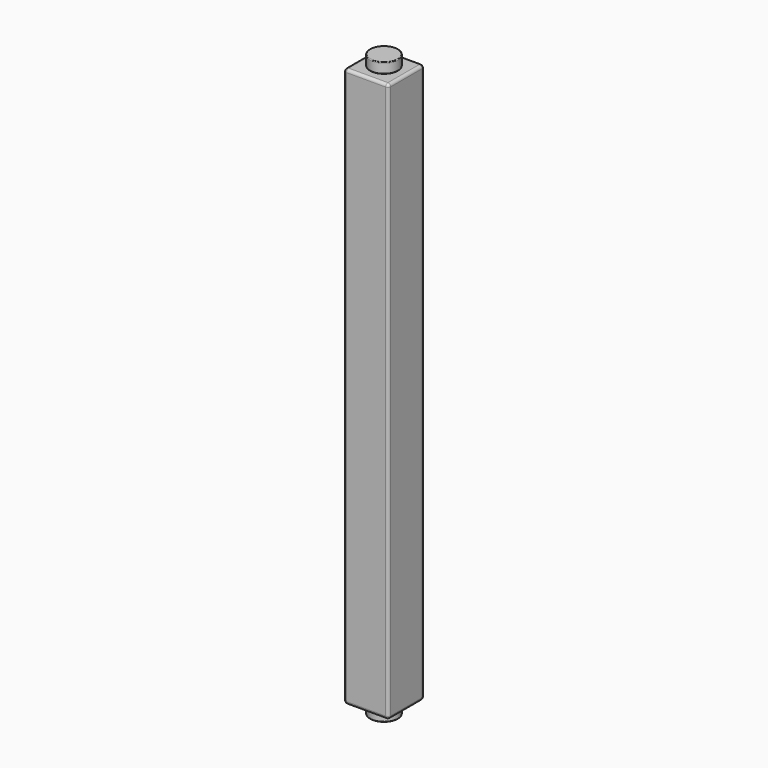
from build123d import *

# Parameters (mm, degrees)
F0_W     = 12.8
F0_H     = 12.8
F1_DEPTH = 160
F2_R     = 0.8
F4_START = 0.1
F3_R     = 4
F4_DEPTH = 3
F5_R     = 0.2
F7_START = 0.1
F6_R     = 4
F7_DEPTH = 3
F8_R     = 0.2


with BuildPart() as f1:
    # F0 (on Top) → F1 (new body)
    with BuildSketch(Plane.XY):
        Rectangle(F0_W, F0_H)
    extrude(amount=F1_DEPTH)

    # F2
    f2_edges = [f1.edges().sort_by_distance(p)[0] for p in [
        (6.4, -6.4, 80),
        (-6.4, -6.4, 80),
        (6.4, 6.4, 80),
        (-6.4, 6.4, 80),
        (0, -6.4, 0),
        (6.4, 0, 0),
        (0, 6.4, 0),
        (-6.4, 0, 0),
        (0, -6.4, 160),
        (6.4, 0, 160),
        (0, 6.4, 160),
        (-6.4, 0, 160),
    ]]
    fillet(f2_edges, radius=F2_R)


with BuildPart() as f4:
    # F3 (on face) → F4 (new body)
    with BuildSketch(Plane(origin=(0, 0, 0), x_dir=(1, 0, 0), z_dir=(0, 0, -1)).offset(F4_START)):
        Circle(F3_R)
    extrude(amount=F4_DEPTH)

    # F5
    f5_edges = [f4.edges().sort_by_distance(p)[0] for p in [
        (-4, 0, -3.1),
        (-4, 0, -0.1),
    ]]
    fillet(f5_edges, radius=F5_R)


with BuildPart() as f7:
    # F6 (on face) → F7 (new body)
    with BuildSketch(Plane.XY.offset(160).offset(F7_START)):
        Circle(F6_R)
    extrude(amount=F7_DEPTH)

    # F8
    f8_edges = [f7.edges().sort_by_distance(p)[0] for p in [
        (-4, 0, 163.1),
        (-4, 0, 160.1),
    ]]
    fillet(f8_edges, radius=F8_R)


solid = Compound([f1.part, f4.part, f7.part])
